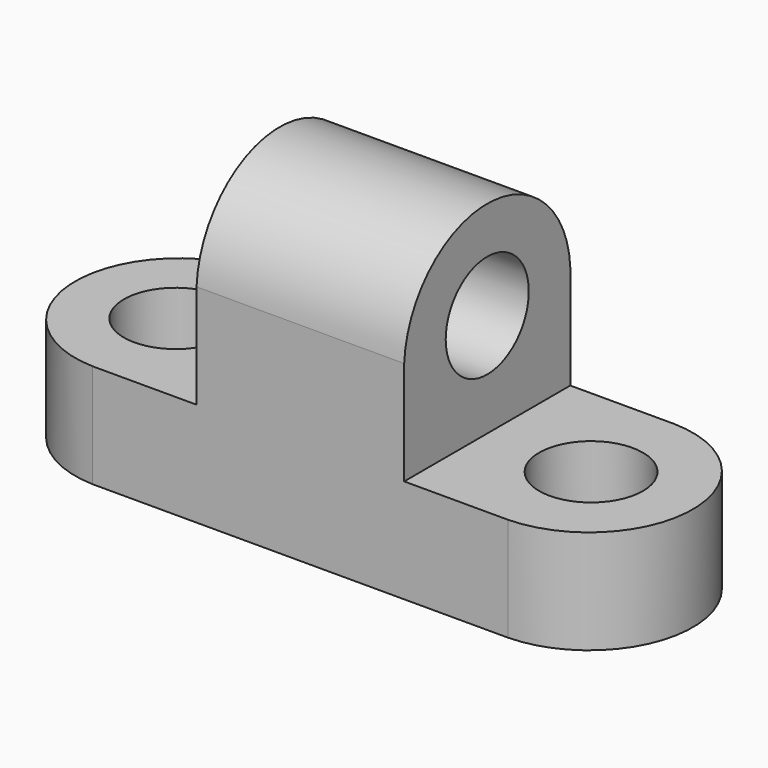
from build123d import *

# Parameters (mm, degrees)
F1_DEPTH = 25.4
F2_R     = 6.35
F3_DEPTH = 25.4
F4_R     = 6.35
F5_DEPTH = 25.4
F6_R     = 6.35
F7_DEPTH = 25.4


with BuildPart() as f1:
    # F0 (on Front) → F1 (new body)
    with BuildSketch(Plane.XZ):
        Polygon((-16.770223, 14.04828), (-42.170223, 14.04828), (-42.170223, 1.34828), (34.029777, 1.34828), (34.029777, 14.04828), (8.629777, 14.04828), (8.629777, 39.44828), (-16.770223, 39.44828), align=None)
    extrude(amount=F1_DEPTH)

    # F2 (on face) → F3 (cut)
    with BuildSketch(Plane(origin=(-16.770223, 0, 0), x_dir=(0, -1, 0), z_dir=(-1, 0, 0))):
        with Locations((12.7, 26.74828)):
            Circle(F2_R)
        with BuildLine():
            ThreePointArc((0, 26.74828), (12.7, 38.797286), (25.4, 26.74828))
            Line((25.4, 26.74828), (25.4, 39.44828))
            Line((25.4, 39.44828), (0, 39.44828))
            Line((0, 39.44828), (0, 26.74828))
        make_face()
    extrude(amount=-F3_DEPTH, mode=Mode.SUBTRACT)

    # F4 (on face) → F5 (cut)
    with BuildSketch(Plane.XY.offset(14.04828)):
        with Locations((-29.470223, -12.7)):
            Circle(F4_R)
        with BuildLine():
            ThreePointArc((-29.470223, -25.4), (-41.771417, -12.7), (-29.470223, 0))
            Line((-29.470223, 0), (-42.170223, 0))
            Line((-42.170223, 0), (-42.170223, -25.4))
            Line((-42.170223, -25.4), (-29.470223, -25.4))
        make_face()
    extrude(amount=-F5_DEPTH, mode=Mode.SUBTRACT)

    # F6 (on face) → F7 (cut)
    with BuildSketch(Plane.XY.offset(14.04828)):
        with Locations((21.329777, -12.7)):
            Circle(F6_R)
        with BuildLine():
            ThreePointArc((21.329777, 0), (33.774057, -12.7), (21.329777, -25.4))
            Line((21.329777, -25.4), (34.029777, -25.4))
            Line((34.029777, -25.4), (34.029777, 0))
            Line((34.029777, 0), (21.329777, 0))
        make_face()
    extrude(amount=-F7_DEPTH, mode=Mode.SUBTRACT)


solid = f1.part
